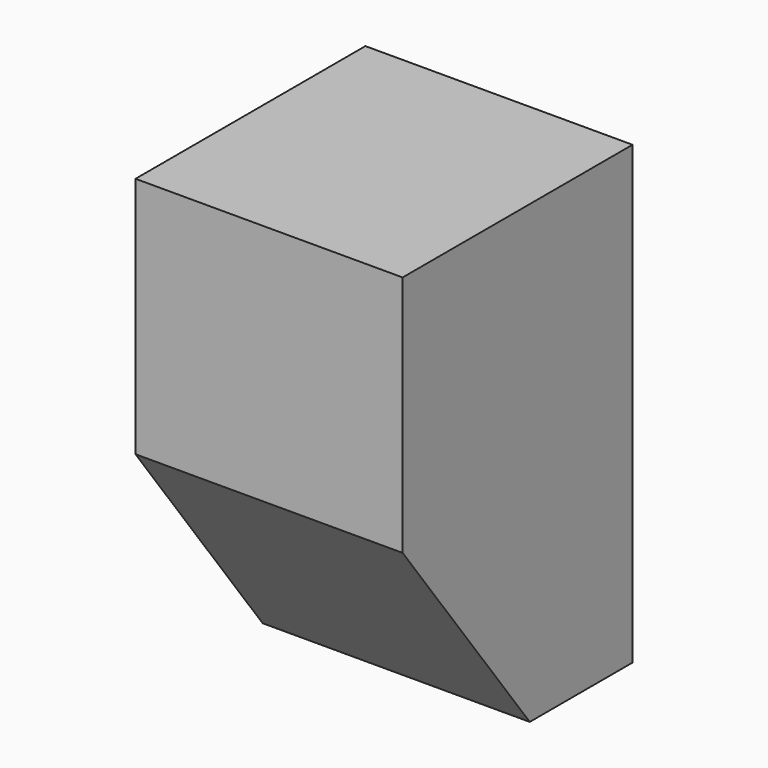
from build123d import *

# Parameters (mm, degrees)
F0_W     = 47.218822
F0_H     = 80.595278
F1_DEPTH = 50.8
F3_DEPTH = 47.219822


with BuildPart() as f1:
    # F0 (on Front) → F1 (new body)
    with BuildSketch(Plane.XZ):
        Rectangle(F0_W, F0_H)
    extrude(amount=F1_DEPTH)

    # F2 (on face) → F3 (cut, through all)
    with BuildSketch(Plane(origin=(-23.609411, 0, 0), x_dir=(0, -1, 0), z_dir=(-1, 0, 0))):
        Polygon((59.437972, 1.700665), (50.8, -2.568789), (16.242092, -48.969489), (63.080169, -48.969489), align=None)
    extrude(amount=-F3_DEPTH, mode=Mode.SUBTRACT)


solid = f1.part
